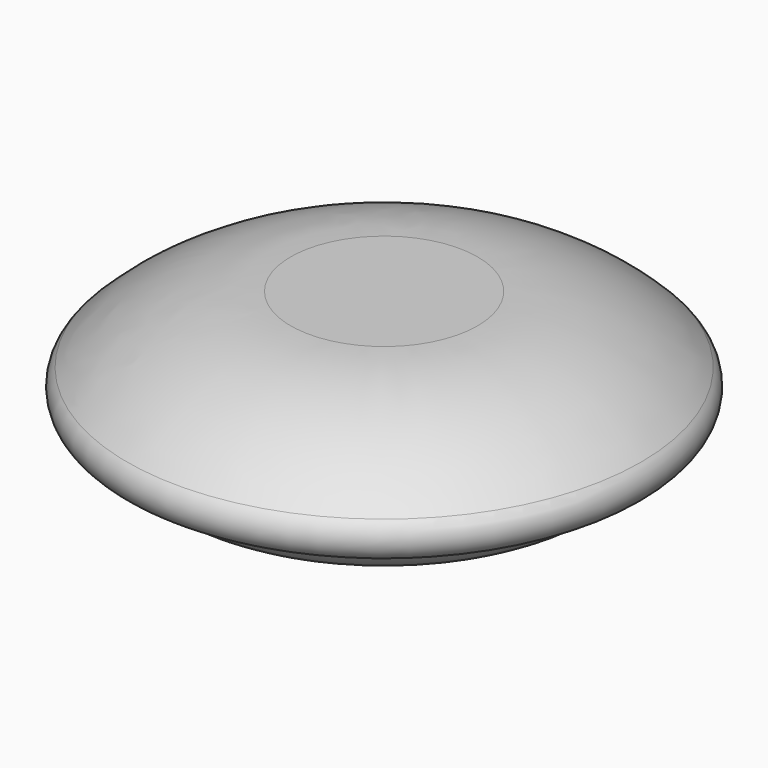
from build123d import *


with BuildPart() as f1:
    # F0 (on Front) → F1 (revolve)
    with BuildSketch(Plane.XZ):
        with BuildLine():
            Line((8, 0), (0, 0))
            Line((0, 0), (0, -15))
            ThreePointArc((0, -15), (7.914243, -14.120815), (15.642364, -12.201346))
            ThreePointArc((15.642364, -12.201346), (18.030612, -11.203629), (19.6, -9.145429))
            Line((19.6, -9.145429), (20.6, -9.145429))
            ThreePointArc((20.6, -9.145429), (22.451563, -7.901547), (22, -5.717143))
            ThreePointArc((22, -5.717143), (15.561179, -1.48437), (8, 0))
        make_face()
    revolve(axis=Axis((0, 0, -7.5), (0, 0, 1)))


solid = f1.part
